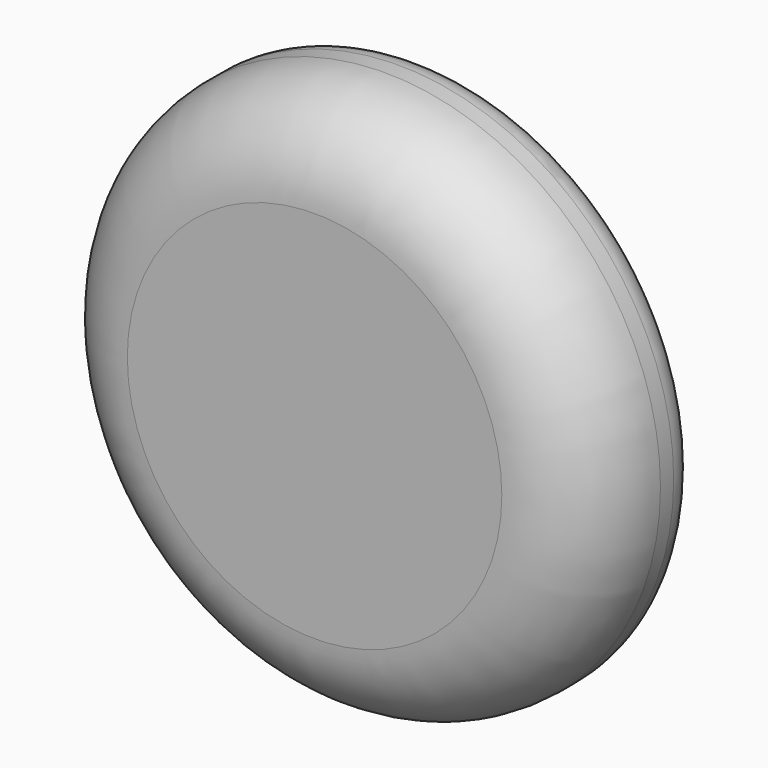
from build123d import *

# Parameters (mm, degrees)
CYLINDER006_R     = 25
CYLINDER006_DEPTH = 12.5
FILLET007_1_R     = 8
FILLET007_2_R     = 3


with BuildPart() as part:
    # Cylinder006 → Cylinder006 (new body)
    with BuildSketch(Plane.XZ):
        Circle(CYLINDER006_R)
    extrude(amount=CYLINDER006_DEPTH)

    # Fillet007 1
    fillet007_1_edges = [part.edges().sort_by_distance(p)[0] for p in [
        (-25, -12.5, 0),
    ]]
    fillet(fillet007_1_edges, radius=FILLET007_1_R)

    # Fillet007 2
    fillet007_2_edges = [part.edges().sort_by_distance(p)[0] for p in [
        (-25, 0, 0),
    ]]
    fillet(fillet007_2_edges, radius=FILLET007_2_R)


solid = part.part
